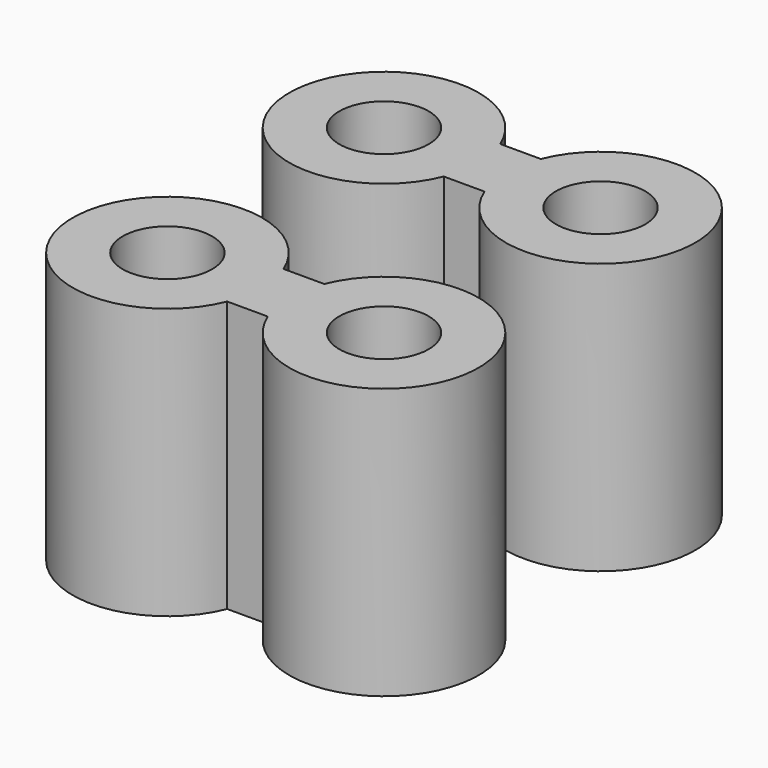
from build123d import *

# Parameters (mm, degrees)
F0_R     = 1.651
F1_DEPTH = 10


with BuildPart() as f1:
    # F0 (on Top) → F1 (new body)
    with BuildSketch(Plane.XY):
        with BuildLine():
            Line((4.751134, 1.301871), (3.248866, 1.301871))
            ThreePointArc((3.248866, 1.301871), (-3.5, 0), (3.248866, -1.301871))
            Line((3.248866, -1.301871), (4.751134, -1.301871))
            ThreePointArc((4.751134, -1.301871), (11.5, 0), (4.751134, 1.301871))
        make_face()
        Circle(F0_R, mode=Mode.SUBTRACT)
        with Locations((8, 0)):
            Circle(F0_R, mode=Mode.SUBTRACT)
    extrude(amount=F1_DEPTH)


with BuildPart() as f2_1:
    # F2: copy of F1
    add(f1.part.moved(Location((0, 10, 0))))


solid = Compound([f1.part, f2_1.part])
